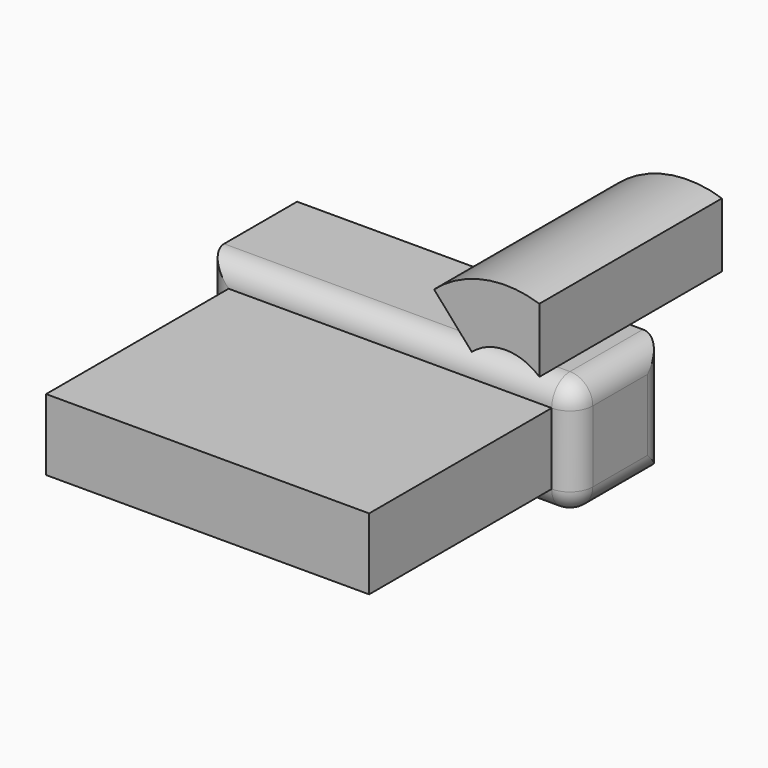
from build123d import *

# Parameters (mm, degrees)
F1_DEPTH  = 25.4
F2_DEPTH  = 2.54
F3_R      = 5.08
F2_FACE_W = 71.9204892415
F2_FACE_H = 15.8714312764
F4_DEPTH  = 50.8


with BuildPart() as f1:
    # F0 (on Front) → F1 (new body)
    with BuildSketch(Plane.XZ):
        with BuildLine():
            Line((18.5112450272, 7.6648131944), (-61.0292442143, 7.6648131944))
            Line((-61.0292442143, 7.6648131944), (-61.0292442143, -18.3666180819))
            Line((-61.0292442143, -18.3666180819), (18.5112450272, -18.3666180819))
            Line((18.5112450272, -18.3666180819), (18.5112450272, -6.671455313))
            ThreePointArc((18.5112450272, -6.671455313), (14.0685196363, -4.6934163347), (10.1139930973, -1.8628391936))
            Line((10.1139930973, -1.8628391936), (18.5112450272, 7.6648131944))
        make_face()
        with BuildLine():
            Line((18.5112450272, -6.671455313), (18.5112450272, 7.6648131944))
            Line((18.5112450272, 7.6648131944), (10.1139930973, -1.8628391936))
            ThreePointArc((10.1139930973, -1.8628391936), (14.0685196363, -4.6934163347), (18.5112450272, -6.671455313))
        make_face()
    extrude(amount=F1_DEPTH)

    # F2 (add): a face of the model
    f2_faces = [f1.faces().sort_by_distance(p)[0] for p in [
        (18.5112450272, -12.7, -5.3509024438),
    ]]
    extrude(f2_faces, amount=F2_DEPTH)

    # F3
    f3_edges = [f1.edges().sort_by_distance(p)[0] for p in [
        (21.051245, -12.7, -18.366618),
        (21.051245, -12.7, 7.664813),
        (21.051245, 0, -5.350902),
        (21.051245, -25.4, -5.350902),
        (-19.989, -25.4, 7.664813),
        (-61.029244, -25.4, -5.350902),
        (-19.989, -25.4, -18.366618),
    ]]
    fillet(f3_edges, radius=F3_R)

    # F0 (on Front) + F2_face (on face) → F4 (join)
    with BuildSketch(Plane.XZ):
        with BuildLine():
            ThreePointArc((18.5112450272, 24.7298628092), (26.0314354673, 27.5708706036), (33.5516259074, 24.7298628092))
            Line((33.5516259074, 24.7298628092), (33.5516259074, 39.0661313166))
            ThreePointArc((33.5516259074, 39.0661313166), (21.1931343978, 39.7796579617), (10.1139930973, 34.2575151972))
            Line((10.1139930973, 34.2575151972), (18.5112450272, 24.7298628092))
        make_face()
    with BuildSketch(Plane(origin=(-19.9889995936, -25.4, -5.3509024438), x_dir=(1, 0, 0), z_dir=(0, -1, 0))):
        Rectangle(F2_FACE_W, F2_FACE_H)
    extrude(amount=F4_DEPTH)


solid = f1.part
